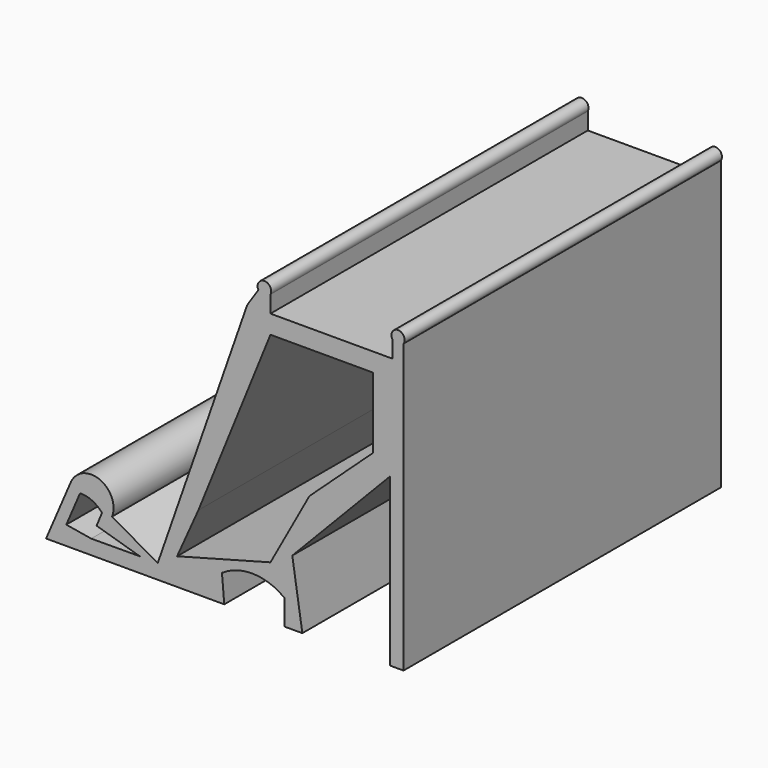
from build123d import *

# Parameters (mm, degrees)
F0_W     = 3.098980058
F0_H     = 4.3087294629
F0_W_2   = 2.8172619641
F1_DEPTH = 101.6


with BuildPart() as f1:
    # F0 (on Front) → F1 (new body)
    with BuildSketch(Plane.XZ):
        with BuildLine():
            Line((-57.4719719589, 3.4746100643), (-30.1903946247, 3.4746100643))
            Line((-30.1903946247, 3.4746100643), (-28.8832707495, 7.2190405379))
            Line((-28.8832707495, 7.2190405379), (-40.5699034386, 13.9134567664))
            Line((-40.5699034386, 13.9134567664), (-41.704513506, 10.9634710115))
            ThreePointArc((-41.704513506, 10.9634710115), (-42.2573756559, 12.5226971206), (-43.15327198, 13.9134567664))
            Line((-43.15327198, 13.9134567664), (-44.5289776008, 10.5662486522))
            Line((-44.5289776008, 10.5662486522), (-33.4519855678, 7.2789071128))
            Line((-33.4519855678, 7.2789071128), (-45.9046832217, 7.2190405379))
            Line((-45.9046832217, 7.2190405379), (-52.2968651154, 8.2829909582))
            Line((-52.2968651154, 8.2829909582), (-48.7638179735, 16.5267694082))
            ThreePointArc((-48.7638179735, 16.5267694082), (-50.5939053459, 16.2681981797), (-52.2968651154, 15.5498619811))
            Line((-52.2968651154, 15.5498619811), (-57.4719719589, 3.4746100643))
        make_face()
        with BuildLine():
            Line((-28.8832707495, 7.2190405379), (-30.1903946247, 3.4746100643))
            Line((-30.1903946247, 3.4746100643), (-17.6380199624, 3.4746100643))
            ThreePointArc((-17.6380199624, 3.4746100643), (-15.5954401796, 7.3596505594), (-12.4220438222, 10.3920138914))
            ThreePointArc((-12.4220438222, 10.3920138914), (-4.3116929978, 12.7663256196), (3.6356791383, 9.8932744876))
            ThreePointArc((3.6356791383, 9.8932744876), (6.3764705614, 7.0185182524), (8.1700356677, 3.4746100643))
            Line((8.1700356677, 3.4746100643), (5.5936163648, 20.1473007733))
            Line((5.5936163648, 20.1473007733), (30.5698979216, 46.0750020962))
            Line((30.5698979216, 46.0750020962), (30.5698979216, 3.4746100643))
            Line((30.5698979216, 3.4746100643), (34.0887717903, 3.4746100643))
            Line((34.0887717903, 3.4746100643), (34.0887717903, 49.7279201839))
            Line((34.0887717903, 49.7279201839), (34.0887717903, 56.3592440111))
            Line((34.0887717903, 56.3592440111), (34.0887717903, 72.8840166399))
            Line((34.0887717903, 72.8840166399), (31.2715098262, 72.8840166399))
            Line((31.2715098262, 72.8840166399), (0, 72.8840166399))
            Line((0, 72.8840166399), (-3.098980058, 72.8840166399))
            Line((-3.098980058, 72.8840166399), (-5.9606237336, 72.8840166399))
            Line((-5.9606237336, 72.8840166399), (-11.8324644864, 56.0633465648))
            Line((-11.8324644864, 56.0633465648), (-28.8832707495, 7.2190405379))
        make_face()
        Polygon((26.2158885598, 68.1269168854), (26.2158885598, 64.4736816023), (26.2158885598, 53.9963319898), (26.2158885598, 49.9590300024), (9.9869952318, 35.0007429456), (0, 16.7954191566), (-23.9142072935, 10.3920138914), (-18.4562690556, 22.5630039349), (0, 68.1269168854), align=None, mode=Mode.SUBTRACT)
        with BuildLine():
            ThreePointArc((-12.4220438222, 10.3920138914), (-15.5954401796, 7.3596505594), (-17.6380199624, 3.4746100643))
            Line((-17.6380199624, 3.4746100643), (-11.8324644864, 3.4746100643))
            Line((-11.8324644864, 3.4746100643), (-12.4220438222, 10.3920138914))
        make_face()
        with BuildLine():
            Line((-41.704513506, 10.9634710115), (-40.5699034386, 13.9134567664))
            ThreePointArc((-40.5699034386, 13.9134567664), (-43.6531352953, 21.2189084028), (-51.0696562862, 18.4133498694))
            Line((-51.0696562862, 18.4133498694), (-52.2968651154, 15.5498619811))
            ThreePointArc((-52.2968651154, 15.5498619811), (-50.5939053459, 16.2681981797), (-48.7638179735, 16.5267694082))
            ThreePointArc((-48.7638179735, 16.5267694082), (-45.6616430264, 15.8575347342), (-43.15327198, 13.9134567664))
            ThreePointArc((-43.15327198, 13.9134567664), (-42.2573756559, 12.5226971206), (-41.704513506, 10.9634710115))
        make_face()
        Polygon((-3.098980058, 77.1927461028), (-5.9606237336, 72.8840166399), (-3.098980058, 72.8840166399), align=None)
        with BuildLine():
            ThreePointArc((8.1700356677, 3.4746100643), (6.3764705614, 7.0185182524), (3.6356791383, 9.8932744876))
            Line((3.6356791383, 9.8932744876), (3.6356791383, 3.4746100643))
            Line((3.6356791383, 3.4746100643), (8.1700356677, 3.4746100643))
        make_face()
        with Locations((-1.549490029, 75.0383813713)):
            Rectangle(F0_W, F0_H)
        with BuildLine():
            ThreePointArc((0, 77.1927461028), (-1.549490029, 79.7396318514), (-3.098980058, 77.1927461028))
            Line((-3.098980058, 77.1927461028), (0, 77.1927461028))
        make_face()
        with Locations((32.6801408082, 75.0383813713)):
            Rectangle(F0_W_2, F0_H)
        with BuildLine():
            ThreePointArc((34.0887717903, 77.1927461028), (32.6801408082, 79.7994074071), (31.2715098262, 77.1927461028))
            Line((31.2715098262, 77.1927461028), (34.0887717903, 77.1927461028))
        make_face()
    extrude(amount=F1_DEPTH)


solid = f1.part
